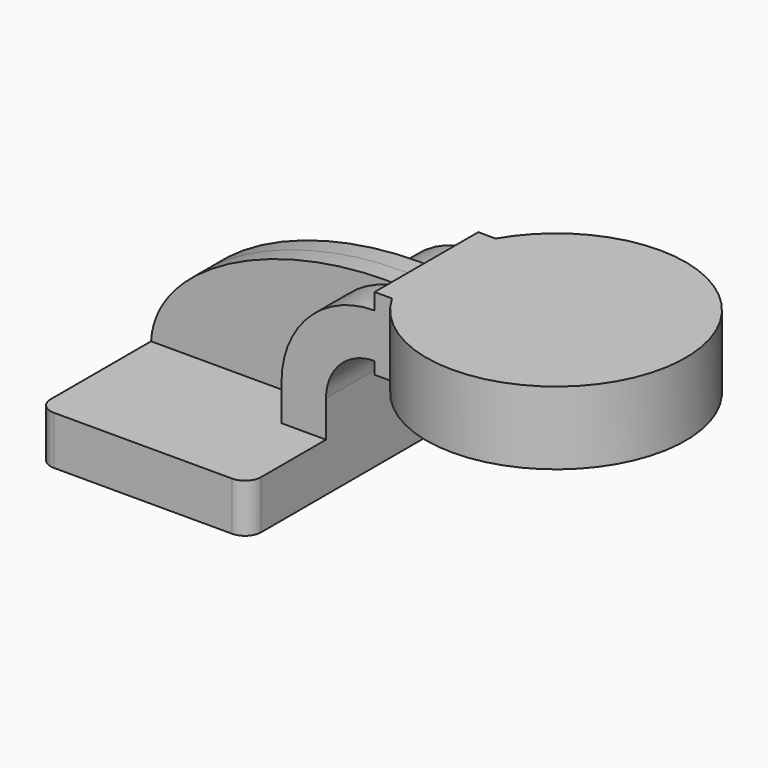
from build123d import *

# Parameters (mm, degrees)
F1_DEPTH = 63.5
F2_DEPTH = 25.4
F3_DEPTH = 7.9375
F5_R     = 6.35


with BuildPart() as f1:
    # F0 (on Front) → F1 (new body, symmetric)
    with BuildSketch(Plane.XZ):
        Polygon((23.849781, 9.525), (-41.275, 9.525), (-41.275, -9.525), (41.275, -9.525), (41.275, 9.525), align=None)
    extrude(amount=F1_DEPTH, both=True)

    # F0 (on Front) → F2 (join, symmetric)
    with BuildSketch(Plane.XZ):
        with BuildLine():
            Line((23.849781, 23.8252), (23.849781, 9.525))
            Line((23.849781, 9.525), (41.275, 9.525))
            Line((41.275, 9.525), (41.275, 23.8252))
            ThreePointArc((41.275, 23.8252), (46.854616, 37.295584), (60.325, 42.8752))
            Line((60.325, 42.8752), (60.325, 60.300419))
            ThreePointArc((60.325, 60.300419), (34.533125, 49.617075), (23.849781, 23.8252))
        make_face()
        Polygon((60.325, 66.675), (60.325, 60.300419), (60.325, 42.8752), (60.325, 38.1), (111.125, 38.1), (111.125, 66.675), align=None)
    extrude(amount=F2_DEPTH, both=True)

    # F0 (on Front) → F3 (join, symmetric)
    with BuildSketch(Plane.XZ):
        with BuildLine():
            add(Edge.make_bspline(
                [(-41.275, 9.525), (-39.523579, 39.352842), (10.464912, 63.553624), (60.325, 60.300419)],
                knots=[0, 0, 0, 0, 113.581263, 113.581263, 113.581263, 113.581263], degree=3))
            Line((-41.275, 9.525), (23.849781, 9.525))
            Line((23.849781, 9.525), (23.849781, 23.8252))
            ThreePointArc((23.849781, 23.8252), (34.533125, 49.617075), (60.325, 60.300419))
        make_face()
    extrude(amount=F3_DEPTH, both=True)

    # F0 (on Front) → F4 (revolve)
    with BuildSketch(Plane.XZ):
        Polygon((60.325, 66.675), (60.325, 60.300419), (60.325, 42.8752), (60.325, 38.1), (111.125, 38.1), (111.125, 66.675), align=None)
    revolve(axis=Axis((111.125, 0, 52.3875), (0, 0, 1)))

    # F5
    f5_edges = [f1.edges().sort_by_distance(p)[0] for p in [
        (41.275, -63.5, 0),
        (-41.275, -63.5, 0),
        (41.275, 63.5, 0),
        (-41.275, 63.5, 0),
    ]]
    fillet(f5_edges, radius=F5_R)


solid = f1.part
